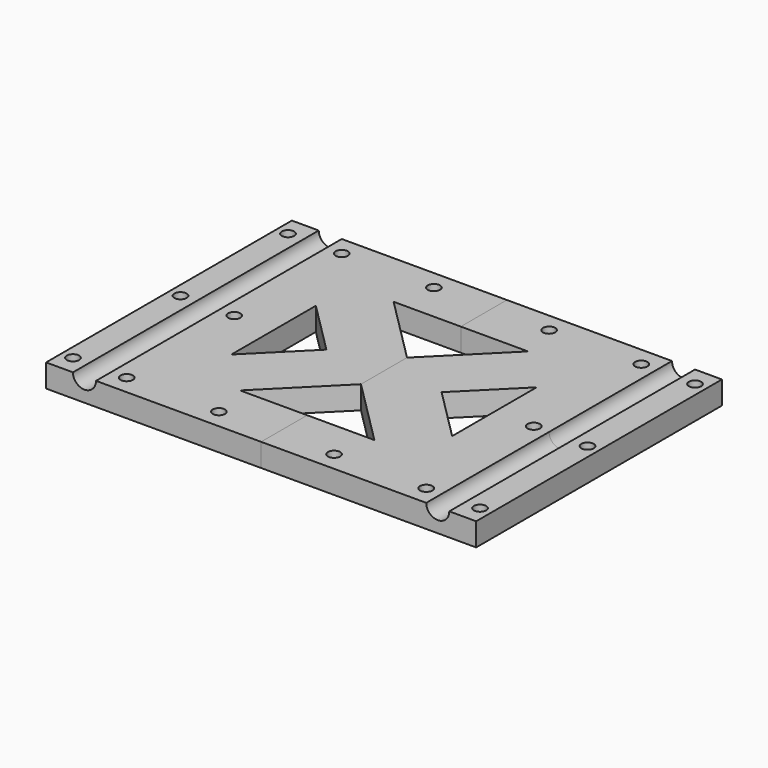
from build123d import *

# Parameters (mm, degrees)
SKETCH_R          = 1.6
PAD_DEPTH         = 6
SKETCH001_R       = 3
POCKET_DEPTH      = 40.001
POCKET_DEPTH_BACK = -40.001


with BuildPart() as toolbody:
    # Sketch → Pad (new body)
    with BuildSketch(Plane.XY):
        Polygon((0, 40), (46, 40), (56, 40), (56, -40), (46, -40), (0, -40), (0, -25), (17.5, -25), (0, -7.5), (0, 7.5), (17.5, 25), (0, 25), align=None)
        with Locations((53, 0)):
            Circle(SKETCH_R, mode=Mode.SUBTRACT)
        with Locations((53, 35)):
            Circle(SKETCH_R, mode=Mode.SUBTRACT)
        with Locations((53, -35)):
            Circle(SKETCH_R, mode=Mode.SUBTRACT)
        with Locations((39, 35)):
            Circle(SKETCH_R, mode=Mode.SUBTRACT)
        with Locations((39, 0)):
            Circle(SKETCH_R, mode=Mode.SUBTRACT)
        with Locations((39, -35)):
            Circle(SKETCH_R, mode=Mode.SUBTRACT)
        with Locations((15, 35)):
            Circle(SKETCH_R, mode=Mode.SUBTRACT)
        with Locations((15, -35)):
            Circle(SKETCH_R, mode=Mode.SUBTRACT)
        Polygon((15, 0), (28.75, 13.75), (28.75, -13.75), align=None, mode=Mode.SUBTRACT)
    extrude(amount=-PAD_DEPTH)

    # Sketch001 → Pocket (cut, two sides)
    with BuildSketch(Plane.XZ) as pocket_sk:
        with Locations((46, 0)):
            Circle(SKETCH001_R)
    extrude(amount=-POCKET_DEPTH, mode=Mode.SUBTRACT)
    extrude(pocket_sk.sketch, amount=-POCKET_DEPTH_BACK, mode=Mode.SUBTRACT)


with BuildPart() as toolfusion:
    # Part__Mirroring: instance of ToolBody
    add(toolbody.part.mirror(Plane(origin=(0, 0, 0), x_dir=(0, -1, 0), z_dir=(1, 0, 0))))

    # Fusion: union ToolBody
    add(toolbody.part)


solid = toolfusion.part
